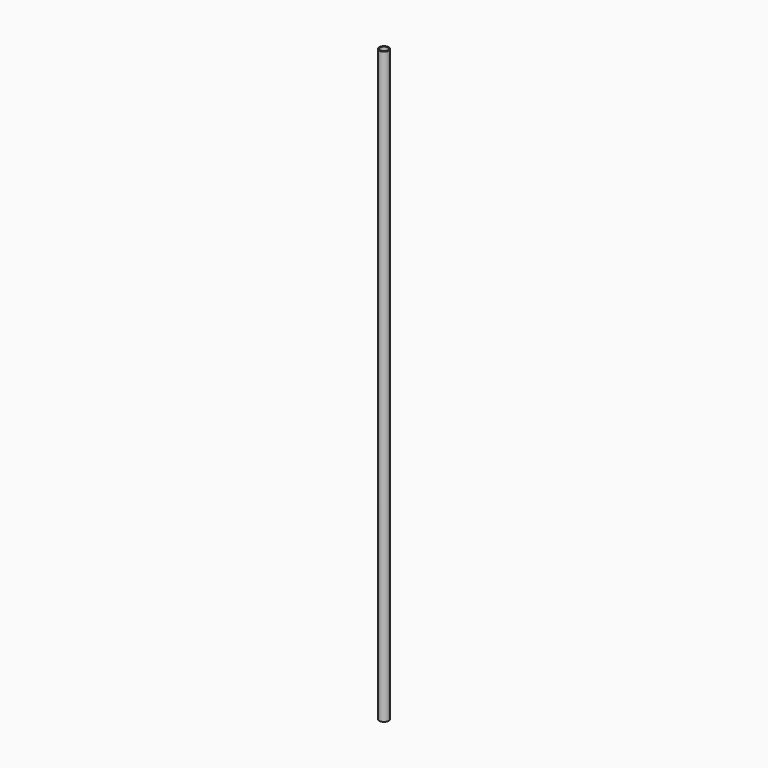
from build123d import *

# Parameters (mm, degrees)
SKETCH_R   = 5
SKETCH_R_2 = 4
PAD_DEPTH  = 620


with BuildPart() as part:
    # Sketch → Pad (new body)
    with BuildSketch(Plane.XY):
        Circle(SKETCH_R)
        Circle(SKETCH_R_2, mode=Mode.SUBTRACT)
    extrude(amount=PAD_DEPTH)


solid = part.part
